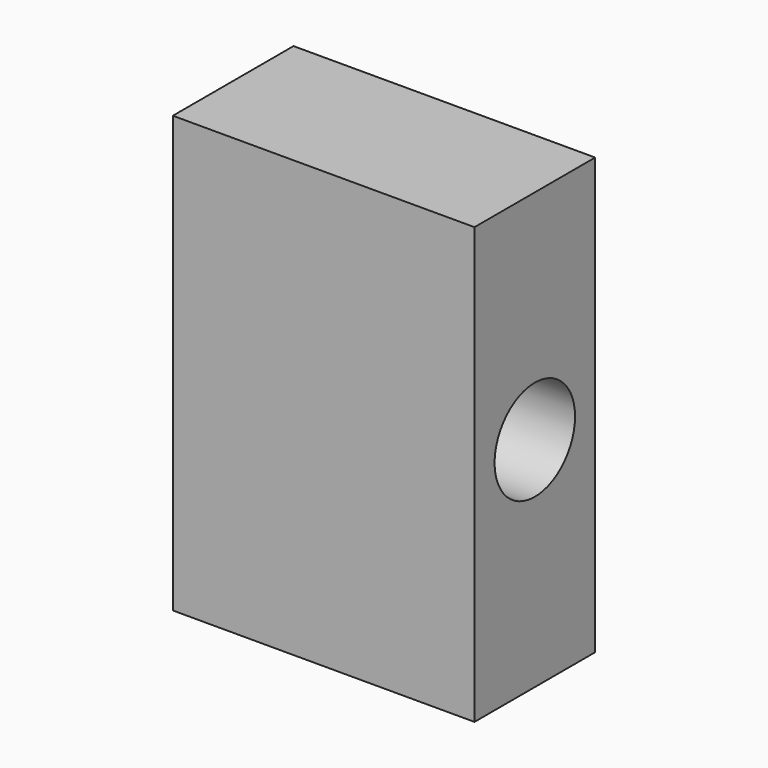
from build123d import *

# Parameters (mm, degrees)
F0_W     = 9.525
F0_H     = 27.5082
F0_R     = 3.175
F1_DEPTH = 9.525


with BuildPart() as f1:
    # F0 (on Right) → F1 (new body, symmetric)
    with BuildSketch(Plane.YZ):
        Rectangle(F0_W, F0_H)
        Circle(F0_R, mode=Mode.SUBTRACT)
    extrude(amount=F1_DEPTH, both=True)


solid = f1.part
